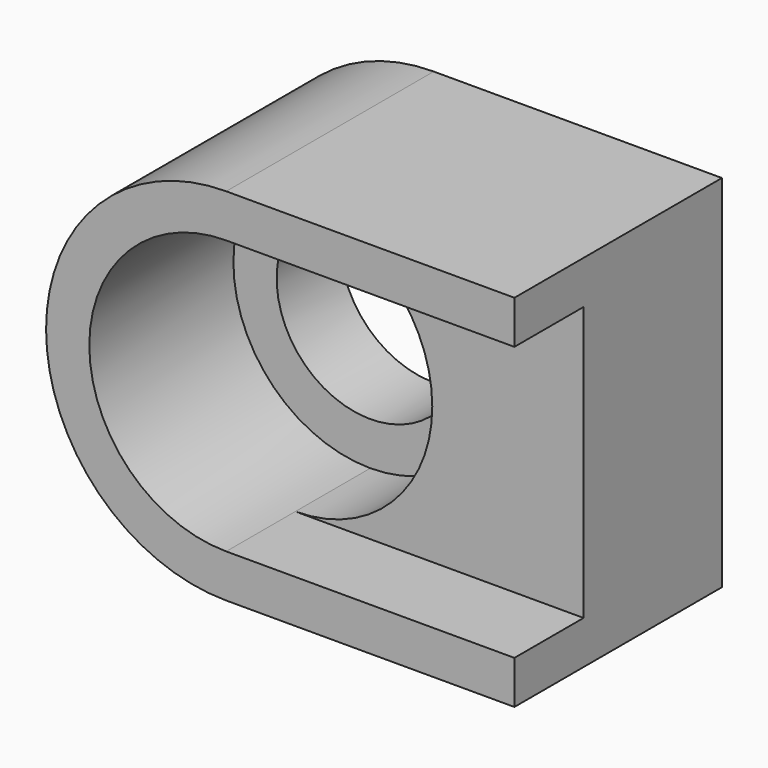
from build123d import *

# Parameters (mm, degrees)
F0_R     = 13
F1_DEPTH = 36
F2_DEPTH = 12
F3_DEPTH = 25


with BuildPart() as f1:
    # F0 (on Front) → F1 (new body)
    with BuildSketch(Plane.XZ):
        with BuildLine():
            ThreePointArc((0, 19), (13.435029, 13.435029), (19, 0))
            ThreePointArc((19, 0), (13.435029, -13.435029), (0, -19))
            Line((0, -19), (40, -19))
            Line((40, -19), (40, 19))
            Line((40, 19), (0, 19))
        make_face()
        with BuildLine():
            ThreePointArc((0, -19), (-19, 0), (0, 19))
            Line((0, 19), (40, 19))
            Line((40, 19), (40, 25))
            Line((40, 25), (0, 25))
            ThreePointArc((0, 25), (-25, 0), (0, -25))
            Line((0, -25), (40, -25))
            Line((40, -25), (40, -19))
            Line((40, -19), (0, -19))
        make_face()
        with BuildLine():
            ThreePointArc((0, -19), (13.435029, -13.435029), (19, 0))
            ThreePointArc((19, 0), (13.435029, 13.435029), (0, 19))
            ThreePointArc((0, 19), (-19, 0), (0, -19))
        make_face()
        Circle(F0_R, mode=Mode.SUBTRACT)
    extrude(amount=-F1_DEPTH)

    # F0 (on Front) → F2 (cut)
    with BuildSketch(Plane.XZ):
        with BuildLine():
            ThreePointArc((0, -19), (13.435029, -13.435029), (19, 0))
            ThreePointArc((19, 0), (13.435029, 13.435029), (0, 19))
            ThreePointArc((0, 19), (-19, 0), (0, -19))
        make_face()
        Circle(F0_R, mode=Mode.SUBTRACT)
        with BuildLine():
            ThreePointArc((0, 19), (13.435029, 13.435029), (19, 0))
            ThreePointArc((19, 0), (13.435029, -13.435029), (0, -19))
            Line((0, -19), (40, -19))
            Line((40, -19), (40, 19))
            Line((40, 19), (0, 19))
        make_face()
    extrude(amount=-F2_DEPTH, mode=Mode.SUBTRACT)

    # F0 (on Front) → F3 (cut)
    with BuildSketch(Plane.XZ):
        with BuildLine():
            ThreePointArc((0, -19), (13.435029, -13.435029), (19, 0))
            ThreePointArc((19, 0), (13.435029, 13.435029), (0, 19))
            ThreePointArc((0, 19), (-19, 0), (0, -19))
        make_face()
        Circle(F0_R, mode=Mode.SUBTRACT)
    extrude(amount=-F3_DEPTH, mode=Mode.SUBTRACT)


solid = f1.part
